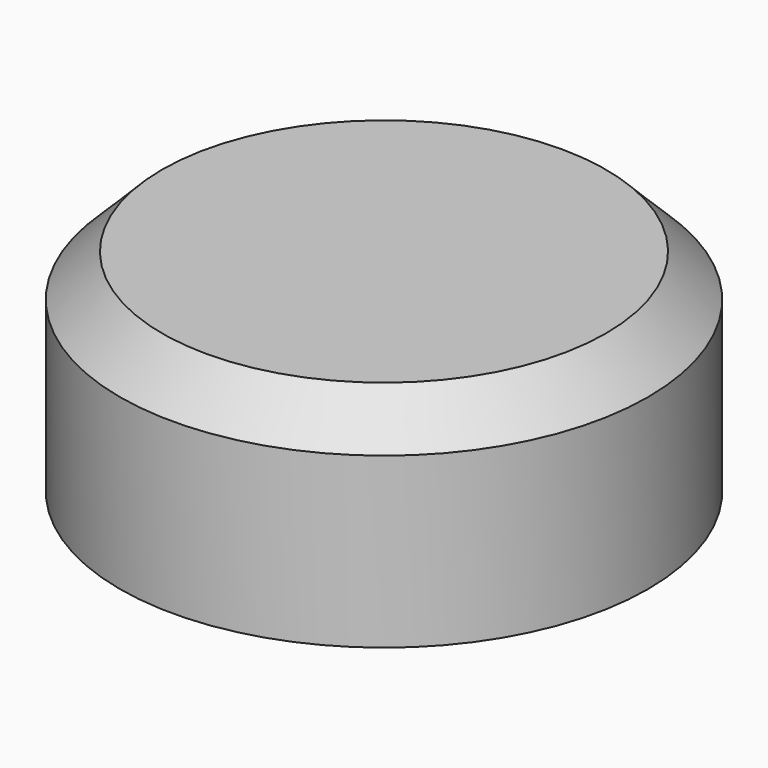
from build123d import *

# Parameters (mm, degrees)
SKETCH_R        = 12.5
PAD_DEPTH       = 10
POCKET_DEPTH    = 8
CHAMFER_SIZE    = 2
POCKET001_DEPTH = 8
CHAMFER001_SIZE = 0.5


with BuildPart() as part:
    # Sketch → Pad (new body)
    with BuildSketch(Plane.XY):
        Circle(SKETCH_R)
    extrude(amount=PAD_DEPTH)

    # Sketch001 → Pocket (cut)
    with BuildSketch(Plane.XY):
        with BuildLine():
            ThreePointArc((-2.765863, 1.4), (0, -3.1), (2.765863, 1.4))
            Line((-2.765863, 1.4), (2.765863, 1.4))
        make_face()
    extrude(amount=POCKET_DEPTH, mode=Mode.SUBTRACT)

    # Chamfer
    chamfer_edges = [part.edges().sort_by_distance(p)[0] for p in [
        (-12.5, 0, 10),
    ]]
    chamfer(chamfer_edges, length=CHAMFER_SIZE)

    # Sketch002 → Pocket001 (cut)
    with BuildSketch(Plane.XY):
        Polygon((1.75, 1.4), (1.75, 3.4), (-1.75, 3.4), (-1.75, 1.4), (-2.765863, 1.4), (-2.765863, 4.4), (2.765863, 4.4), (2.765863, 1.4), align=None)
    extrude(amount=POCKET001_DEPTH, mode=Mode.SUBTRACT)

    # Chamfer001
    chamfer001_edges = [part.edges().sort_by_distance(p)[0] for p in [
        (0, -3.1, 0),
        (0, 1.4, 0),
    ]]
    chamfer(chamfer001_edges, length=CHAMFER001_SIZE)


solid = part.part
